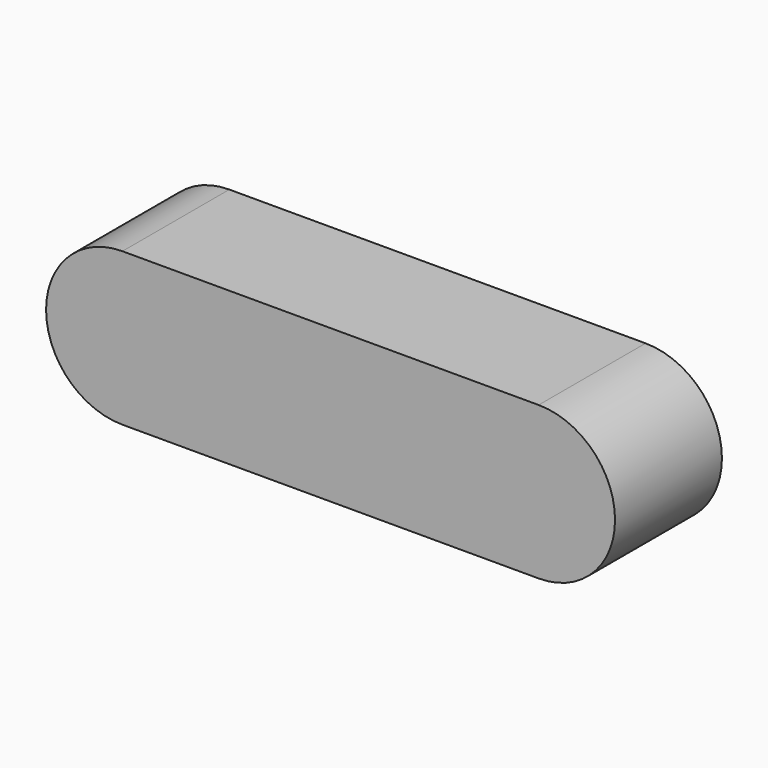
from build123d import *

# Parameters (mm, degrees)
F0_W     = 21.806
F0_H     = 8
F1_DEPTH = 7


with BuildPart() as f1:
    # F0 (on Front) → F1 (new body)
    with BuildSketch(Plane.XZ):
        with BuildLine():
            ThreePointArc((0, 8), (-4, 4), (0, 0))
            Line((0, 0), (0, 8))
        make_face()
        with Locations((10.903, 4)):
            Rectangle(F0_W, F0_H)
        with BuildLine():
            Line((21.806, 8), (21.806, 0))
            ThreePointArc((21.806, 0), (25.806, 4), (21.806, 8))
        make_face()
    extrude(amount=F1_DEPTH)


solid = f1.part
